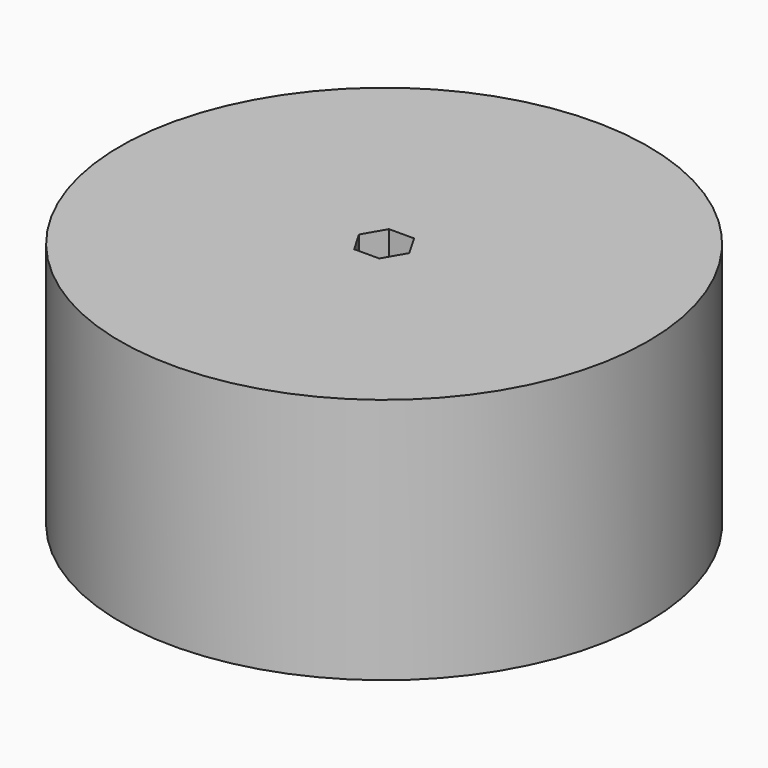
from build123d import *

# Parameters (mm, degrees)
SKETCH_R     = 40
PAD_DEPTH    = 37.4
POCKET_DEPTH = 37.401


with BuildPart() as part:
    # Sketch → Pad (new body)
    with BuildSketch(Plane.XY):
        with Locations((40, 0)):
            Circle(SKETCH_R)
    extrude(amount=PAD_DEPTH)

    # Sketch001 → Pocket (cut, through all)
    with BuildSketch(Plane.XY):
        Polygon((43.810512, 0), (41.905256, 3.3), (38.094744, 3.3), (36.189488, 0), (38.094744, -3.3), (41.905256, -3.3), align=None)
    extrude(amount=POCKET_DEPTH, mode=Mode.SUBTRACT)


solid = part.part
